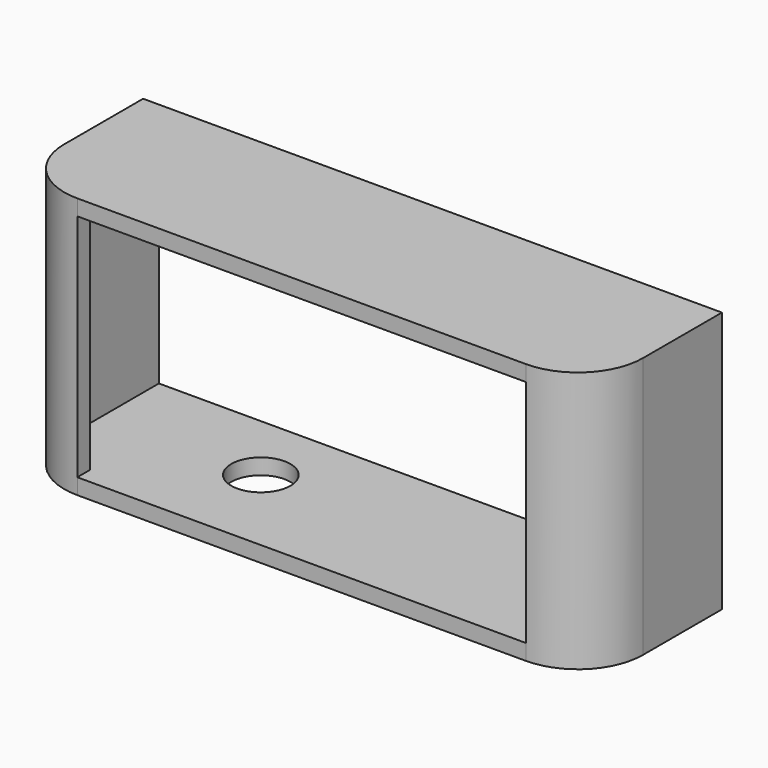
from build123d import *

# Parameters (mm, degrees)
F1_DEPTH = 26.5
F2_R     = 6.6
F3_T     = -1.6
F4_R     = 3
F5_DEPTH = 2
F6_W     = 45.5
F6_H     = 23.3
F7_DEPTH = 2


with BuildPart() as f1:
    # F0 (on Top) → F1 (new body)
    with BuildSketch(Plane.XY):
        Polygon((29.25, 7.5), (27.65, 7.5), (-27.65, 7.5), (-29.25, 7.5), (-29.35, 7.5), (-29.35, -9.1), (-29.25, -9.1), (29.25, -9.1), (29.35, -9.1), (29.35, 7.5), align=None)
    extrude(amount=F1_DEPTH)

    # F2
    f2_edges = [f1.edges().sort_by_distance(p)[0] for p in [
        (-29.35, -9.1, 13.25),
        (29.35, -9.1, 13.25),
    ]]
    fillet(f2_edges, radius=F2_R)

    # F3
    f3_openings = [f1.faces().sort_by_distance(p)[0] for p in [
        (0, 7.5, 13.25),
    ]]
    offset(amount=F3_T, openings=f3_openings)

    # F4 (on face) → F5 (cut)
    with BuildSketch(Plane(origin=(0, 0, 0), x_dir=(1, 0, 0), z_dir=(0, 0, -1))):
        with Locations((-11.65, -0.3)):
            Circle(F4_R)
    extrude(amount=-F5_DEPTH, mode=Mode.SUBTRACT)

    # F6 (on face) → F7 (cut)
    with BuildSketch(Plane.XZ.offset(9.1)):
        with Locations((0, 13.25)):
            Rectangle(F6_W, F6_H)
    extrude(amount=-F7_DEPTH, mode=Mode.SUBTRACT)


solid = f1.part
